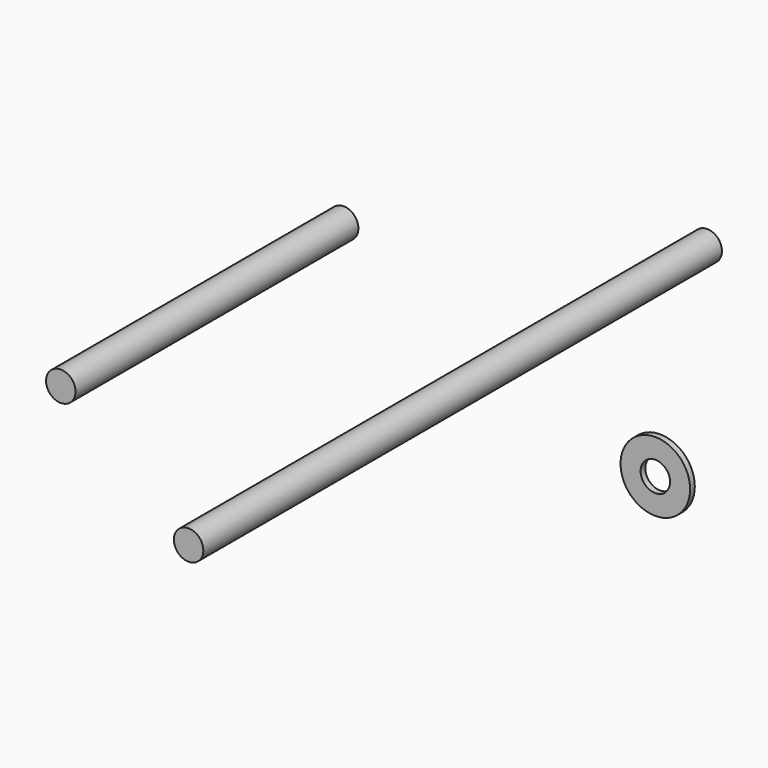
from build123d import *

# Parameters (mm, degrees)
F0_R     = 3.175
F1_DEPTH = 38.1
F2_DEPTH = 69.85
F3_R     = 7.493
F3_R_2   = 3.175
F4_DEPTH = 1.27


with BuildPart() as f1:
    # F0 (on Front) → F1 (new body, symmetric)
    with BuildSketch(Plane.XZ):
        with Locations((-52.938949, 0)):
            Circle(F0_R)
    extrude(amount=F1_DEPTH, both=True)


with BuildPart() as f2:
    # F0 (on Front) → F2 (new body, symmetric)
    with BuildSketch(Plane.XZ):
        Circle(F0_R)
    extrude(amount=F2_DEPTH, both=True)


with BuildPart() as f4:
    # F3 (on Front) → F4 (new body)
    with BuildSketch(Plane.XZ):
        with Locations((45.72, 0)):
            Circle(F3_R)
        with Locations((45.72, 0)):
            Circle(F3_R_2, mode=Mode.SUBTRACT)
    extrude(amount=F4_DEPTH)


solid = Compound([f1.part, f2.part, f4.part])
